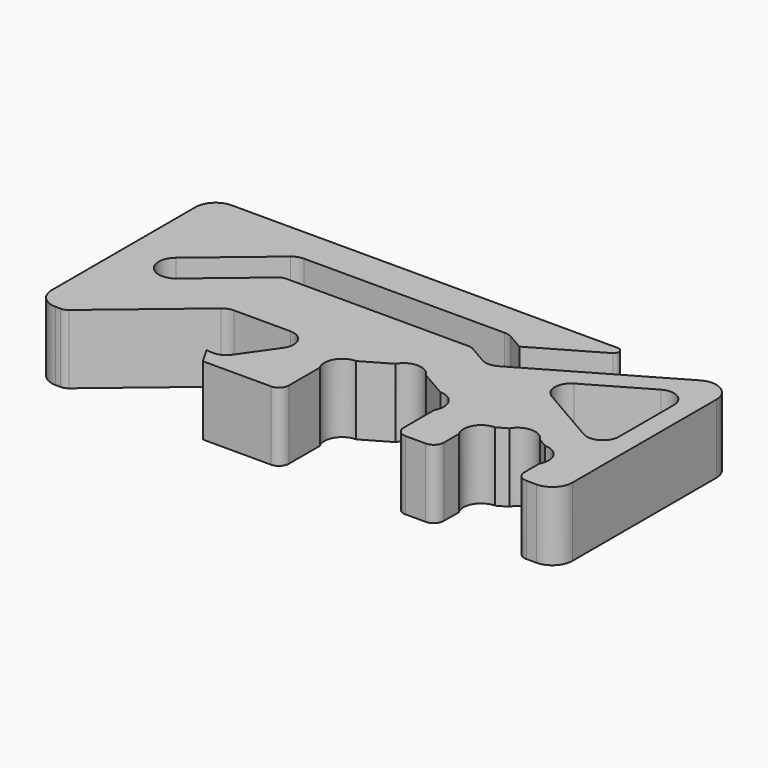
from build123d import *

# Parameters (mm, degrees)
F1_DEPTH = 6.858
F2_R     = 1.75
F3_DEPTH = 6.859
F4_R     = 1
F5_R     = 2
F6_R     = 0.5
F7_R     = 1
F8_R     = 1.6
F9_R     = 1.6
F10_R    = 1.6


with BuildPart() as f1:
    # F0 (on Top) → F1 (new body)
    with BuildSketch(Plane.XY):
        with BuildLine():
            ThreePointArc((0, 2), (0.585786, 0.585786), (2, 0))
            Line((2, 0), (2.5, 0))
            ThreePointArc((2.5, 0), (2.84202, 0.060307), (3.142788, 0.233956))
            Line((3.142788, 0.233956), (12.614652, 8.181793))
            Line((12.614652, 8.181793), (18.796832, 8.181793))
            ThreePointArc((18.796832, 8.181793), (20.21605, 7.320591), (20.107475, 5.664071))
            Line((20.107475, 5.664071), (17.191762, 1.5))
            Line((17.191762, 1.5), (15.69747, 1.630734))
            Line((15.69747, 1.630734), (16.638974, 0))
            Line((16.638974, 0), (24.396832, 0))
            Line((24.396832, 0), (24.396832, 6.581793))
            Line((24.396832, 6.581793), (30.096832, 9.87269))
            Line((30.096832, 9.87269), (35.796832, 6.581793))
            Line((35.796832, 6.581793), (35.796832, 0))
            Line((35.796832, 0), (39.796832, 0))
            Line((39.796832, 0), (39.796832, 4.618802))
            Line((39.796832, 4.618802), (43.796832, 6.928203))
            Line((43.796832, 6.928203), (47.796832, 4.618802))
            Line((47.796832, 4.618802), (47.796832, 0))
            Line((47.796832, 0), (51.796832, 0))
            Line((51.796832, 0), (51.796832, 19.87269))
            ThreePointArc((51.796832, 19.87269), (50.796832, 21.60474), (48.796832, 21.60474))
            Line((48.796832, 21.60474), (34.286578, 13.227241))
            Line((34.286578, 13.227241), (31.436578, 14.87269))
            Line((31.436578, 14.87269), (30.096832, 14.87269))
            Line((30.096832, 14.87269), (12.66367, 14.87269))
            Line((12.66367, 14.87269), (6.374878, 9.595767))
            ThreePointArc((6.374878, 9.595767), (3.909422, 9.811466), (4.125122, 12.276923))
            Line((4.125122, 12.276923), (11.389774, 18.37269))
            Line((11.389774, 18.37269), (32.3744, 18.37269))
            Line((32.3744, 18.37269), (34.286578, 17.268693))
            Line((34.286578, 17.268693), (42.260934, 21.87269))
            Line((42.260934, 21.87269), (0, 21.87269))
            Line((0, 21.87269), (0, 2))
        make_face()
        Polygon((49.796832, 7.505553), (39.086578, 13.689122), (49.796832, 19.87269), align=None, mode=Mode.SUBTRACT)
    extrude(amount=F1_DEPTH)

    # F2 (on face) → F3 (cut, through all)
    with BuildSketch(Plane.XY.offset(6.858)):
        with Locations((30.096832, 8.12269)):
            Circle(F2_R)
        with Locations((34.281288, 5.706793)):
            Circle(F2_R)
        with Locations((25.912377, 5.706793)):
            Circle(F2_R)
        with BuildLine():
            ThreePointArc((45.540307, 5.329188), (45.5452, 5.253766), (45.546832, 5.178203))
            ThreePointArc((45.546832, 5.178203), (45.273182, 4.23858), (44.537813, 3.592818))
            ThreePointArc((44.537813, 3.592818), (46.35685, 1.995434), (48.031288, 3.743802))
            ThreePointArc((48.031288, 3.743802), (47.220911, 5.220152), (45.540307, 5.329188))
        make_face()
        with BuildLine():
            ThreePointArc((44.537813, 3.592818), (44.765743, 4.618802), (45.540307, 5.329188))
            ThreePointArc((45.540307, 5.329188), (43.796832, 6.928203), (42.053358, 5.329188))
            ThreePointArc((42.053358, 5.329188), (42.788726, 4.683425), (43.062377, 3.743802))
            ThreePointArc((43.062377, 3.743802), (43.060745, 3.668239), (43.055851, 3.592818))
            ThreePointArc((43.055851, 3.592818), (43.796832, 3.428203), (44.537813, 3.592818))
        make_face()
        with BuildLine():
            ThreePointArc((43.055851, 3.592818), (42.281288, 4.303203), (42.053358, 5.329188))
            ThreePointArc((42.053358, 5.329188), (39.796832, 2.868802), (43.055851, 3.592818))
        make_face()
    extrude(amount=-F3_DEPTH, mode=Mode.SUBTRACT)

    # F4
    f4_edges = [f1.edges().sort_by_distance(p)[0] for p in [
        (24.396832, 0, 3.429),
        (35.796832, 0, 3.429),
        (39.796832, 0, 3.429),
        (47.796832, 0, 3.429),
    ]]
    fillet(f4_edges, radius=F4_R)

    # F5
    f5_edges = [f1.edges().sort_by_distance(p)[0] for p in [
        (51.796832, 0, 3.429),
        (0, 21.87269, 3.429),
    ]]
    fillet(f5_edges, radius=F5_R)

    # F6
    f6_edges = [f1.edges().sort_by_distance(p)[0] for p in [
        (42.260934, 21.87269, 3.429),
    ]]
    fillet(f6_edges, radius=F6_R)

    # F7
    f7_edges = [f1.edges().sort_by_distance(p)[0] for p in [
        (12.66367, 14.87269, 3.429),
        (31.436578, 14.87269, 3.429),
    ]]
    fillet(f7_edges, radius=F7_R)

    # F8
    f8_edges = [f1.edges().sort_by_distance(p)[0] for p in [
        (39.086578, 13.689122, 3.429),
        (49.796832, 19.87269, 3.429),
        (49.796832, 7.505553, 3.429),
    ]]
    fillet(f8_edges, radius=F8_R)

    # F9
    f9_edges = [f1.edges().sort_by_distance(p)[0] for p in [
        (17.191762, 1.5, 3.429),
    ]]
    fillet(f9_edges, radius=F9_R)

    # F10
    f10_edges = [f1.edges().sort_by_distance(p)[0] for p in [
        (34.286578, 13.227241, 3.429),
        (32.3744, 18.37269, 3.429),
        (11.389774, 18.37269, 3.429),
        (12.614652, 8.181793, 3.429),
    ]]
    fillet(f10_edges, radius=F10_R)


solid = f1.part
